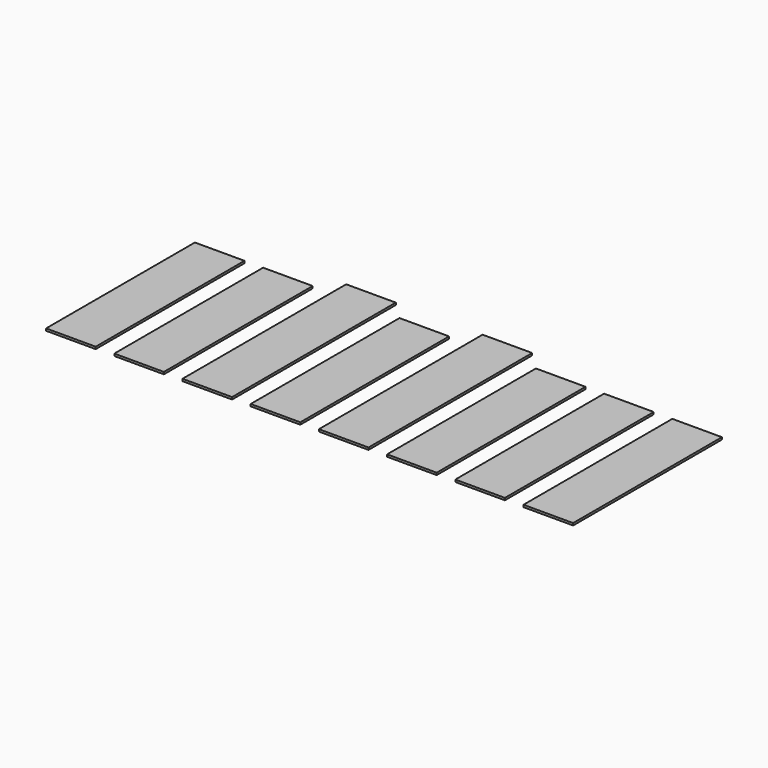
from build123d import *

# Parameters (mm, degrees)
BOX071_W     = 0.8
BOX071_H     = 3
BOX071_DEPTH = 0.035
BOX002_W     = 0.8
BOX002_H     = 3.3
BOX002_DEPTH = 0.035


with BuildPart() as cube053:
    # Box071 → Box071 (new body)
    with BuildSketch(Plane(origin=(2.8, 11, -0.035), x_dir=(1, 0, 0), z_dir=(0, 0, 1))):
        with Locations((0.4, 1.5)):
            Rectangle(BOX071_W, BOX071_H)
    extrude(amount=BOX071_DEPTH)


with BuildPart() as cube051:
    # Link013 base: copy of Cube053
    add(cube053.part)


with BuildPart() as cube051_1:
    # Link013 placement: moved
    add(cube051.part.moved(Location((-1.1, 0, 0))))


with BuildPart() as cube052:
    # Link014 base: copy of Cube053
    add(cube053.part)


with BuildPart() as cube052_1:
    # Link014 placement: moved
    add(cube052.part.moved(Location((-2.2, 0, 0))))


with BuildPart() as cube050:
    # Link012 base: copy of Cube053
    add(cube053.part)


with BuildPart() as cube050_1:
    # Link012 placement: moved
    add(cube050.part.moved(Location((-4.4, 0, 0))))


with BuildPart() as cube049:
    # Link003 base: copy of Cube053
    add(cube053.part)


with BuildPart() as cube049_1:
    # Link003 placement: moved
    add(cube049.part.moved(Location((-6.6, 0, 0))))


with BuildPart() as cube048:
    # Link011 base: copy of Cube053
    add(cube053.part)


with BuildPart() as cube048_1:
    # Link011 placement: moved
    add(cube048.part.moved(Location((-7.7, 0, 0))))


with BuildPart() as cube055:
    # Box002 → Box002 (new body)
    with BuildSketch(Plane(origin=(-0.5, 11, -0.035), x_dir=(1, 0, 0), z_dir=(0, 0, 1))):
        with Locations((0.4, 1.65)):
            Rectangle(BOX002_W, BOX002_H)
    extrude(amount=BOX002_DEPTH)


with BuildPart() as cube047:
    # Link010 base: copy of Cube055
    add(cube055.part)


with BuildPart() as cube047_1:
    # Link010 placement: moved
    add(cube047.part.moved(Location((-2.2, 0, 0))))


with BuildPart() as contacts:
    # Fusion053 base: copy of Cube053
    add(cube053.part)

    # Fusion053: union Cube051, Cube052, Cube050, Cube049, Cube048, Cube055, Cube047
    add(cube051_1.part)
    add(cube052_1.part)
    add(cube050_1.part)
    add(cube049_1.part)
    add(cube048_1.part)
    add(cube055.part)
    add(cube047_1.part)


solid = contacts.part
